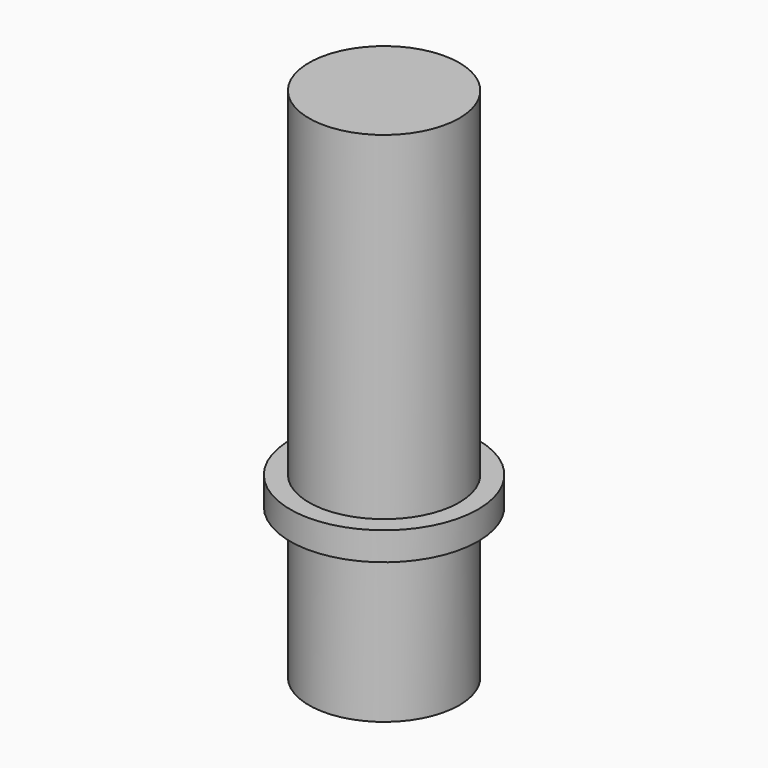
from build123d import *


with BuildPart() as part:
    # Sketch → Revolution (revolve)
    with BuildSketch(Plane.XZ):
        Polygon((0, 0), (4, 0), (4, 8), (5, 8), (5, 9.5), (4, 9.5), (4, 27.5), (0, 27.5), align=None)
    revolve(axis=Axis((0, 0, 0), (0, 0, 1)))


solid = part.part
